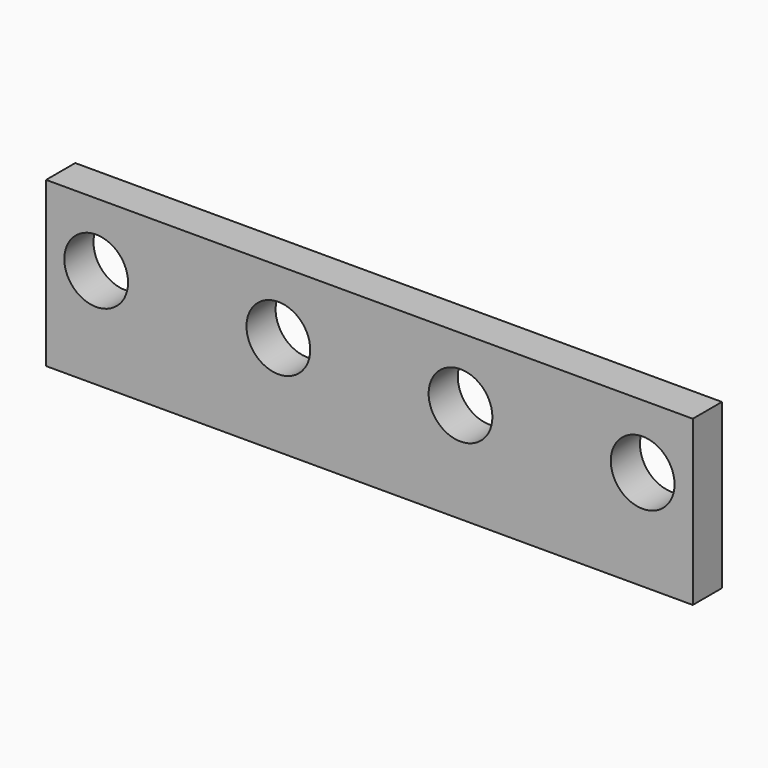
from build123d import *

# Parameters (mm, degrees)
F0_W     = 225.425
F0_H     = 57.15
F1_DEPTH = 6.35
F3_DEPTH = 12.701


with BuildPart() as f1:
    # F0 (on Front) → F1 (new body, symmetric)
    with BuildSketch(Plane.XZ):
        Rectangle(F0_W, F0_H)
    extrude(amount=F1_DEPTH, both=True)

    # F2 (on face) → F3 (cut, through all)
    with BuildSketch(Plane.XZ.offset(6.35)):
        with BuildLine():
            Line((-84.1344035983, 6.3598155975), (-106.3594035983, 6.3598155975))
            ThreePointArc((-106.3594035983, 6.3598155975), (-95.2469035983, -4.7526844025), (-84.1344035983, 6.3598155975))
        make_face()
        with BuildLine():
            ThreePointArc((-84.1344035983, 6.3598155975), (-95.2469035983, 17.4723155975), (-106.3594035983, 6.3598155975))
            Line((-106.3594035983, 6.3598155975), (-84.1344035983, 6.3598155975))
        make_face()
        with BuildLine():
            Line((-20.6365519956, 6.359861698), (-42.8615519956, 6.359861698))
            ThreePointArc((-42.8615519956, 6.359861698), (-31.7490519956, -4.752638302), (-20.6365519956, 6.359861698))
        make_face()
        with BuildLine():
            ThreePointArc((-20.6365519956, 6.359861698), (-31.7490519956, 17.472361698), (-42.8615519956, 6.359861698))
            Line((-42.8615519956, 6.359861698), (-20.6365519956, 6.359861698))
        make_face()
        with BuildLine():
            Line((42.8613498986, 6.3600256108), (20.6363498986, 6.3600256108))
            ThreePointArc((20.6363498986, 6.3600256108), (31.7488498986, -4.7524743892), (42.8613498986, 6.3600256108))
        make_face()
        with BuildLine():
            ThreePointArc((42.8613498986, 6.3600256108), (31.7488498986, 17.4725256108), (20.6363498986, 6.3600256108))
            Line((20.6363498986, 6.3600256108), (42.8613498986, 6.3600256108))
        make_face()
        with BuildLine():
            Line((106.3594967306, 6.360122934), (84.1344967306, 6.360122934))
            ThreePointArc((84.1344967306, 6.360122934), (95.2469967306, -4.752377066), (106.3594967306, 6.360122934))
        make_face()
        with BuildLine():
            ThreePointArc((106.3594967306, 6.360122934), (95.2469967306, 17.472622934), (84.1344967306, 6.360122934))
            Line((84.1344967306, 6.360122934), (106.3594967306, 6.360122934))
        make_face()
    extrude(amount=-F3_DEPTH, mode=Mode.SUBTRACT)


solid = f1.part
